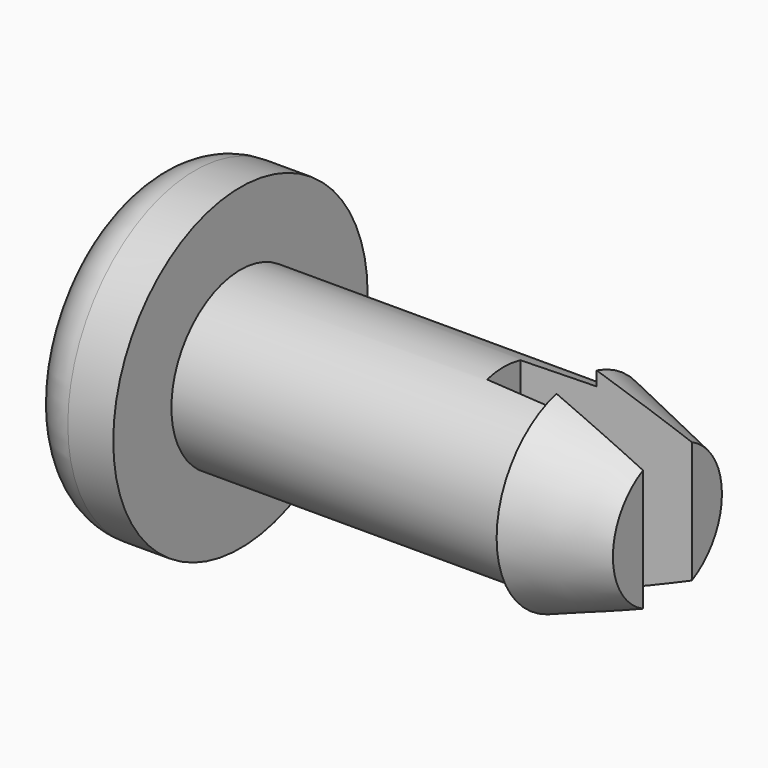
from build123d import *

# Parameters (mm, degrees)
F2_DEPTH = 12.5
F3_R     = 1


with BuildPart() as f1:
    # F0 (on Top) → F1 (revolve)
    with BuildSketch(Plane.XY):
        Polygon((-48.5449684441, 34.0502707809), (-50.5449684441, 34.0502707809), (-50.5449684441, 30.5502707809), (-42.7490452468, 30.5502707809), (-42.7490452468, 31.0099636614), (-39.1449684441, 31.2220901251), (-39.1449684441, 32.0502707809), (-41.1449684441, 32.7502707809), (-41.1449684441, 32.4502707809), (-48.5449684441, 32.4502707809), align=None)
        Polygon((-42.7490452468, 31.0099636614), (-42.7490452468, 30.5502707809), (-39.1449684441, 30.5502707809), (-39.1449684441, 31.2220901251), align=None)
    revolve(axis=Axis((-41.4569408685, 30.5502707809, 0), (1, 0, 0)))

    # F0 (on Top) → F2 (cut, symmetric)
    with BuildSketch(Plane.XY):
        Polygon((-42.7490452468, 31.0099636614), (-42.7490452468, 30.5502707809), (-39.1449684441, 30.5502707809), (-39.1449684441, 31.2220901251), align=None)
        Polygon((-39.1449684441, 30.5502707809), (-42.7490452468, 30.5502707809), (-42.7490452468, 30.0905779004), (-39.1449684441, 29.8784514368), align=None)
    extrude(amount=F2_DEPTH, both=True, mode=Mode.SUBTRACT)

    # F3
    f3_edges = [f1.edges().sort_by_distance(p)[0] for p in [
        (-50.544968, 27.050271, 0),
    ]]
    fillet(f3_edges, radius=F3_R)


solid = f1.part
